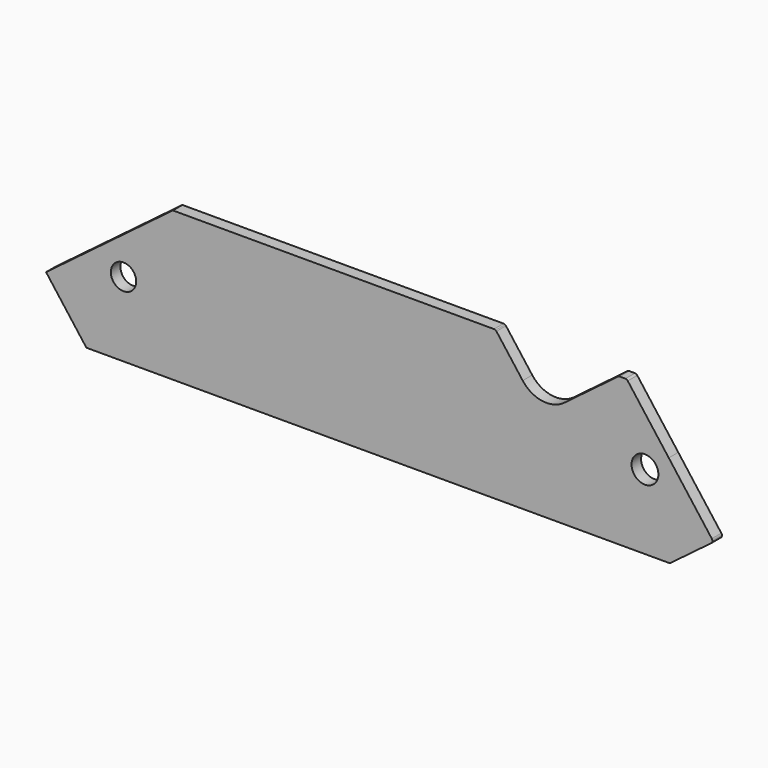
from build123d import *

# Parameters (mm, degrees)
F0_R     = 4.25
F0_R_2   = 4.5
F1_DEPTH = 4


with BuildPart() as f1:
    # F0 (on Front) → F1 (new body)
    with BuildSketch(Plane.XZ):
        with BuildLine():
            Line((-175.720268, -220.525816), (-190.163828, -201.358564))
            Line((-190.163828, -201.358564), (-203.930533, -183.08953))
            ThreePointArc((-203.930533, -183.08953), (-204.28129, -182.797251), (-204.72541, -182.691353))
            Line((-204.72541, -182.691353), (-206.58497, -182.684365))
            ThreePointArc((-206.58497, -182.684365), (-206.90425, -182.735439), (-207.190543, -182.885722))
            Line((-207.190543, -182.885722), (-225.175092, -196.438052))
            ThreePointArc((-225.175092, -196.438052), (-232.584973, -198.354377), (-239.179597, -194.469847))
            Line((-239.179597, -194.469847), (-247.992372, -182.774899))
            ThreePointArc((-247.992372, -182.774899), (-248.116058, -182.638851), (-248.262561, -182.527748))
            Line((-248.262561, -182.527748), (-288.454294, -182.376714))
            Line((-288.454294, -182.376714), (-356.590464, -182.376714))
            Line((-356.590464, -182.376714), (-399.134222, -214.435735))
            Line((-399.134222, -214.435735), (-385.614724, -232.376714))
            Line((-385.614724, -232.376714), (-190.119896, -232.376714))
            ThreePointArc((-190.119896, -232.376714), (-189.802591, -232.325038), (-189.518081, -232.17535))
            Line((-189.518081, -232.17535), (-175.917088, -221.926267))
            ThreePointArc((-175.917088, -221.926267), (-175.528635, -221.266804), (-175.720268, -220.525816))
        make_face()
        with Locations((-373.150184, -207.376714)):
            Circle(F0_R, mode=Mode.SUBTRACT)
        with Locations((-198.150184, -207.376714)):
            Circle(F0_R_2, mode=Mode.SUBTRACT)
        with BuildLine():
            Line((-288.454294, -182.376714), (-248.262561, -182.527748))
            ThreePointArc((-248.262561, -182.527748), (-248.516205, -182.415214), (-248.791008, -182.376714))
            Line((-248.791008, -182.376714), (-288.454294, -182.376714))
        make_face()
    extrude(amount=F1_DEPTH)


solid = f1.part
